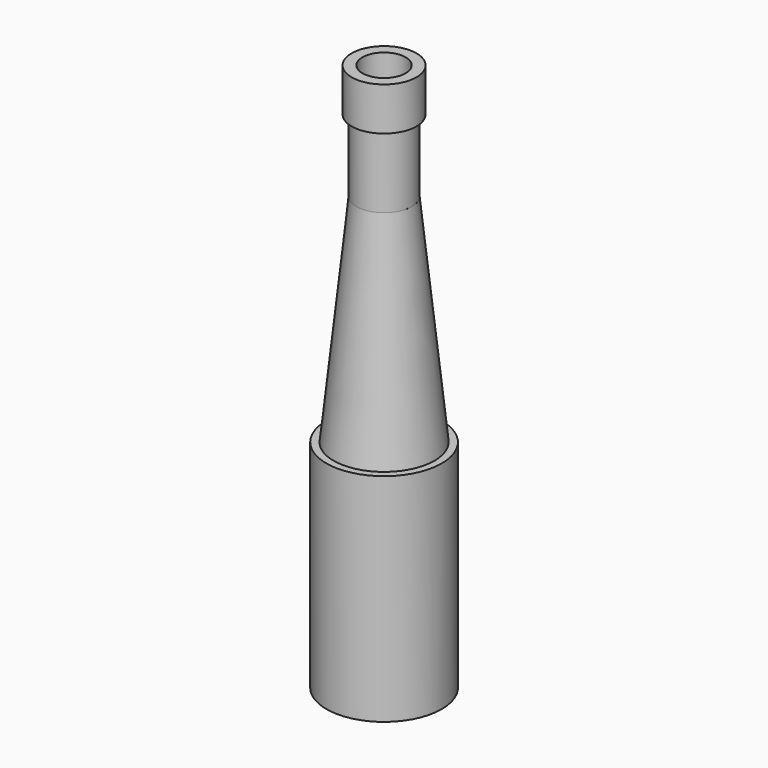
from build123d import *

# Parameters (mm, degrees)
SKETCH007_R       = 4
SKETCH007_R_2     = 1.5
PAD007_DEPTH      = 15
SKETCH008_R       = 3.5
PAD008_DEPTH      = 15
PAD008_TAPER      = 6
PAD008_FACE6_R    = 1.5
POCKET001_DEPTH   = 20
SKETCH009_R       = 2
PAD009_DEPTH      = 5
PAD009_FACE7_R    = 2
PAD009_FACE7_R_2  = 1.923436
POCKET002_DEPTH   = 5
POCKET002_FACE8_R = 1.5
POCKET003_DEPTH   = 5
SKETCH010_R       = 2.25
PAD010_DEPTH      = 3
SKETCH011_R       = 1.5
POCKET004_DEPTH   = 5


with BuildPart() as part:
    # Sketch007 → Pad007 (new body)
    with BuildSketch(Plane.XY):
        Circle(SKETCH007_R)
        Circle(SKETCH007_R_2, mode=Mode.SUBTRACT)
    extrude(amount=PAD007_DEPTH)

    # Sketch008 (on Face4 of Pad007) → Pad008 (join)
    with BuildSketch(Plane.XY.offset(15)):
        Circle(SKETCH008_R)
    extrude(amount=PAD008_DEPTH, taper=PAD008_TAPER)

    # Pad008 Face6 → Pocket001 (cut)
    with BuildSketch(Plane(origin=(0, 0, 15), x_dir=(0, -1, 0), z_dir=(0, 0, -1))):
        Circle(PAD008_FACE6_R)
    extrude(amount=-POCKET001_DEPTH, mode=Mode.SUBTRACT)

    # Sketch009 (on Face7 of Pocket001) → Pad009 (join)
    with BuildSketch(Plane.XY.offset(30)):
        Circle(SKETCH009_R)
    extrude(amount=PAD009_DEPTH)

    # Pad009 Face7 → Pocket002 (cut)
    with BuildSketch(Plane(origin=(0, 0, 30), x_dir=(0, -1, 0), z_dir=(0, 0, -1))):
        Circle(PAD009_FACE7_R)
        Circle(PAD009_FACE7_R_2, mode=Mode.SUBTRACT)
    extrude(amount=-POCKET002_DEPTH, mode=Mode.SUBTRACT)

    # Pocket002 Face8 → Pocket003 (cut)
    with BuildSketch(Plane(origin=(0, 0, 30), x_dir=(0, -1, 0), z_dir=(0, 0, -1))):
        Circle(POCKET002_FACE8_R)
    extrude(amount=-POCKET003_DEPTH, mode=Mode.SUBTRACT)

    # Sketch010 (on Face9 of Pocket003) → Pad010 (join)
    with BuildSketch(Plane.XY.offset(35)):
        Circle(SKETCH010_R)
    extrude(amount=PAD010_DEPTH)

    # Sketch011 (on Face12 of Pad010) → Pocket004 (cut)
    with BuildSketch(Plane.XY.offset(38)):
        Circle(SKETCH011_R)
    extrude(amount=-POCKET004_DEPTH, mode=Mode.SUBTRACT)


solid = part.part
